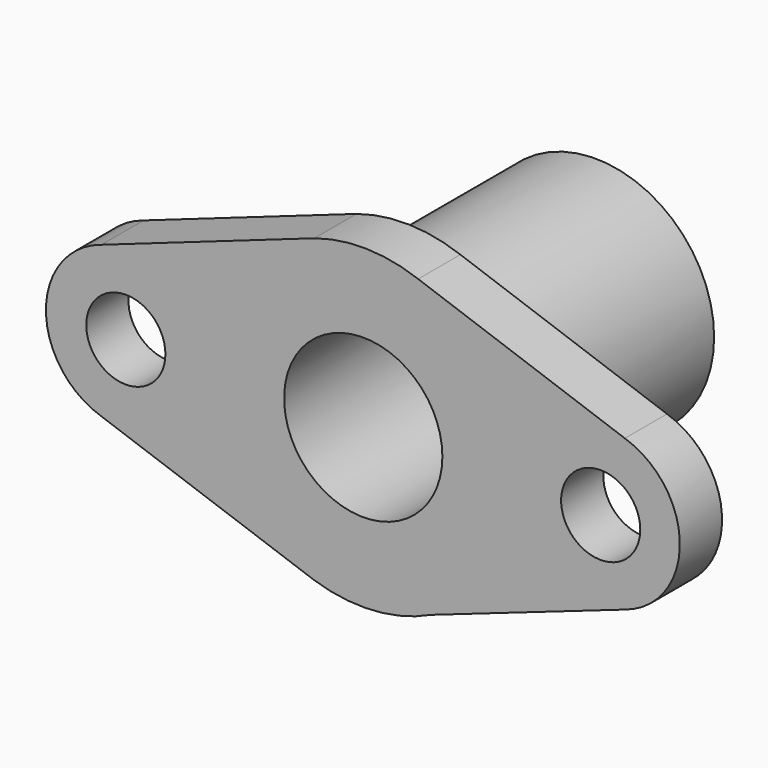
from build123d import *

# Parameters (mm, degrees)
PAD_DEPTH       = 20
SKETCH002_R     = 15
POCKET001_DEPTH = 20
SKETCH003_R     = 15
POCKET002_DEPTH = 20
SKETCH_R        = 45
PAD001_DEPTH    = 90
SKETCH004_R     = 40
POCKET_DEPTH    = 25
SKETCH005_R     = 30
POCKET003_DEPTH = 110


with BuildPart() as part:
    # Sketch001 → Pad (new body)
    with BuildSketch(Plane.XZ):
        with BuildLine():
            Line((20.821842, 56.271226), (99.135441, 28.576132))
            ThreePointArc((99.258042, -28.53666), (120.002757, 0.064399), (99.135441, 28.576132))
            Line((99.258042, -28.53666), (25.71069, -54.21218))
            ThreePointArc((-18.562526, -57.056399), (3.846616, -59.876569), (25.71069, -54.21218))
            Line((-18.562526, -57.056399), (-99.28142, -28.602251))
            ThreePointArc((-99.262461, 28.63761), (-120.277525, 0.024636), (-99.28142, -28.602251))
            Line((-18.539501, 57.063884), (-99.262461, 28.63761))
            ThreePointArc((20.821842, 56.271226), (1.208034, 59.987838), (-18.539501, 57.063884))
        make_face()
    extrude(amount=PAD_DEPTH)

    # Sketch002 → Pocket001 (cut)
    with BuildSketch(Plane(origin=(0, 0, 0), x_dir=(1, 0, 0), z_dir=(0, 1, 0))):
        with Locations((-90, 0)):
            Circle(SKETCH002_R)
    extrude(amount=-POCKET001_DEPTH, mode=Mode.SUBTRACT)

    # Sketch003 (on Face4 of Pocket001) → Pocket002 (cut)
    with BuildSketch(Plane(origin=(0, 0, 0), x_dir=(1, 0, 0), z_dir=(0, 1, 0))):
        with Locations((90, 0)):
            Circle(SKETCH003_R)
    extrude(amount=-POCKET002_DEPTH, mode=Mode.SUBTRACT)

    # Sketch (on Face9 of Pad) → Pad001 (join)
    with BuildSketch(Plane(origin=(0, 0, 0), x_dir=(1, 0, 0), z_dir=(0, 1, 0))):
        Circle(SKETCH_R)
    extrude(amount=PAD001_DEPTH)

    # Sketch004 (on Face14 of Pad001) → Pocket (cut)
    with BuildSketch(Plane(origin=(0, 90, 0), x_dir=(1, 0, 0), z_dir=(0, 1, 0))):
        with Locations((0.371243, -0.842497)):
            Circle(SKETCH004_R)
    extrude(amount=-POCKET_DEPTH, mode=Mode.SUBTRACT)

    # Sketch005 (on Face16 of Pocket) → Pocket003 (cut)
    with BuildSketch(Plane(origin=(0, 65, 0), x_dir=(1, 0, 0), z_dir=(0, 1, 0))):
        Circle(SKETCH005_R)
    extrude(amount=-POCKET003_DEPTH, mode=Mode.SUBTRACT)


solid = part.part
